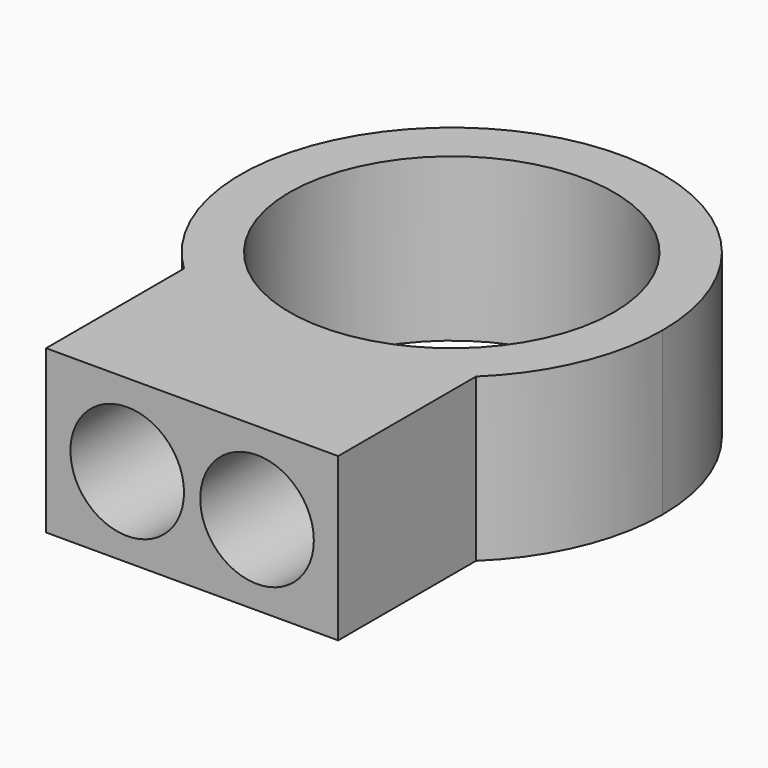
from build123d import *

# Parameters (mm, degrees)
F0_R     = 10
F1_DEPTH = 10
F2_R     = 3.5
F3_DEPTH = 13.386621823


with BuildPart() as f1:
    # F0 (on Top) → F1 (new body)
    with BuildSketch(Plane.XY):
        with BuildLine():
            ThreePointArc((9, -9.3808315196), (11.9582607431, -5.0990195136), (13, 0))
            ThreePointArc((13, 0), (-5.0990195136, 11.9582607431), (-9, -9.3808315196))
            ThreePointArc((-9, -9.3808315196), (0, -13), (9, -9.3808315196))
        make_face()
        Circle(F0_R, mode=Mode.SUBTRACT)
        with BuildLine():
            ThreePointArc((9, -9.3808315196), (0, -13), (-9, -9.3808315196))
            Line((-9, -9.3808315196), (-9, -20))
            Line((-9, -20), (9, -20))
            Line((9, -20), (9, -9.3808315196))
        make_face()
    extrude(amount=F1_DEPTH)

    # F2 (on face) → F3 (cut, through all)
    with BuildSketch(Plane.XZ.offset(20)):
        with Locations((-4, 4.9318415113)):
            Circle(F2_R)
        with Locations((4, 4.9318415113)):
            Circle(F2_R)
    extrude(amount=-F3_DEPTH, mode=Mode.SUBTRACT)


solid = f1.part
